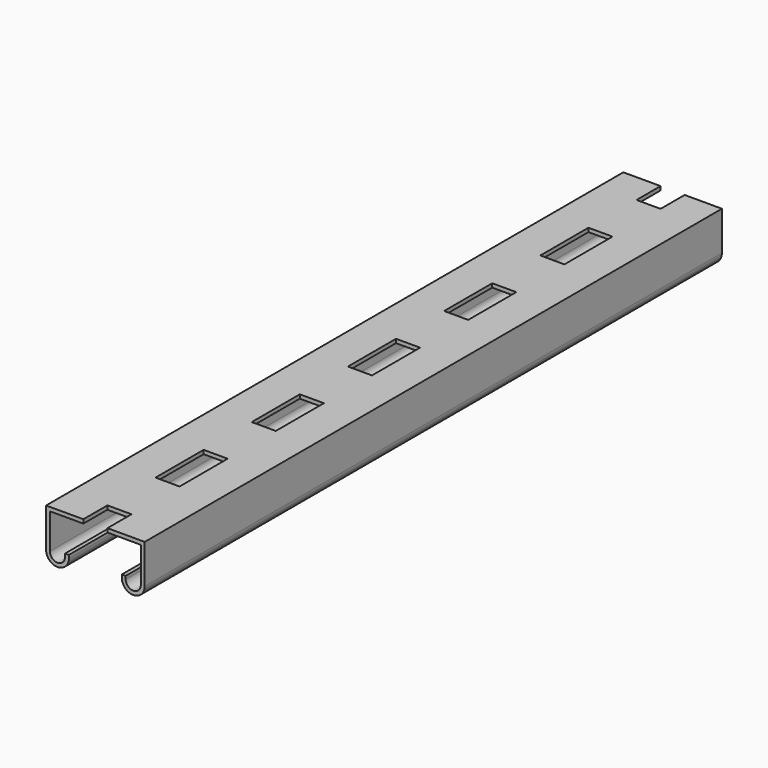
from build123d import *

# Parameters (mm, degrees)
F2_DEPTH = 7620
F1_W     = 254
F1_H     = 317.5
F1_H_2   = 635
F3_DEPTH = 40.64


with BuildPart() as f2:
    # F0 (on Front) → F2 (new body)
    with BuildSketch(Plane.XZ):
        with BuildLine():
            Line((1041.4, 0), (0, 0))
            Line((0, 0), (0, -412.75))
            ThreePointArc((0, -412.75), (120.65, -533.4), (241.3, -412.75))
            Line((241.3, -412.75), (241.3, -381))
            Line((241.3, -381), (200.66, -381))
            Line((200.66, -381), (200.66, -412.75))
            ThreePointArc((200.66, -412.75), (120.65, -492.76), (40.64, -412.75))
            Line((40.64, -412.75), (40.64, -40.64))
            Line((40.64, -40.64), (1000.76, -40.64))
            Line((1000.76, -40.64), (1000.76, -412.75))
            ThreePointArc((1000.76, -412.75), (920.75, -492.76), (840.74, -412.75))
            Line((840.74, -412.75), (840.74, -381))
            Line((840.74, -381), (800.1, -381))
            Line((800.1, -381), (800.1, -412.75))
            ThreePointArc((800.1, -412.75), (920.75, -533.4), (1041.4, -412.75))
            Line((1041.4, -412.75), (1041.4, 0))
        make_face()
    extrude(amount=-F2_DEPTH)

    # F1 (on Top) → F3 (cut)
    with BuildSketch(Plane.XY):
        with Locations((520.7, 158.75)):
            Rectangle(F1_W, F1_H)
        with Locations((520.7, 1270)):
            Rectangle(F1_W, F1_H_2)
        with Locations((520.7, 2540)):
            Rectangle(F1_W, F1_H_2)
        with Locations((520.7, 3810)):
            Rectangle(F1_W, F1_H_2)
        with Locations((520.7, 5080)):
            Rectangle(F1_W, F1_H_2)
        with Locations((520.7, 6350)):
            Rectangle(F1_W, F1_H_2)
        with Locations((520.7, 7461.25)):
            Rectangle(F1_W, F1_H)
    extrude(amount=-F3_DEPTH, mode=Mode.SUBTRACT)


solid = f2.part
